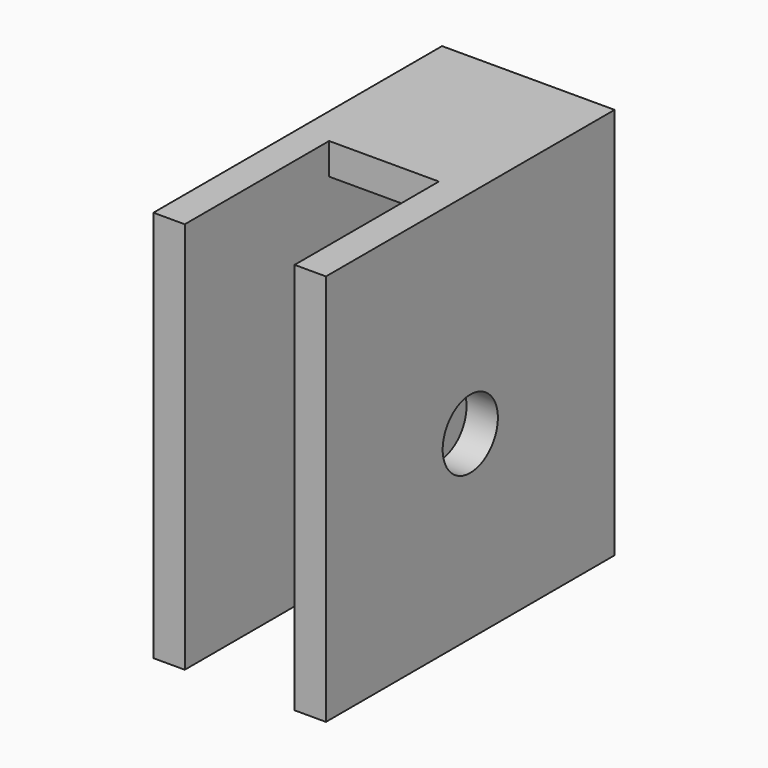
from build123d import *

# Parameters (mm, degrees)
F1_DEPTH = 73.025
F2_R     = 6.985
F3_DEPTH = 25.4
F5_W     = 22.225
F5_H     = 36.5125
F6_DEPTH = 25.4


with BuildPart() as f1:
    # F0 (on Front) → F1 (new body)
    with BuildSketch(Plane.XZ):
        Polygon((-17.4625, 0), (-11.1125, 0), (-11.1125, 73.025), (0, 73.025), (0, 79.375), (-17.4625, 79.375), align=None)
    extrude(amount=-F1_DEPTH)

    # F2 (on face) → F3 (cut)
    with BuildSketch(Plane.YZ.offset(-11.1125)):
        with Locations((36.5125, 36.5125)):
            Circle(F2_R)
    extrude(amount=-F3_DEPTH, mode=Mode.SUBTRACT)

    # F4: F1 across plane


with BuildPart() as f1_1:
    add(f1.part)
    add(f1.part.mirror(Plane.YZ))

    # F5 (on face) → F6 (cut)
    with BuildSketch(Plane.XY.offset(79.375)):
        with Locations((0, 18.25625)):
            Rectangle(F5_W, F5_H)
    extrude(amount=-F6_DEPTH, mode=Mode.SUBTRACT)


solid = f1_1.part
